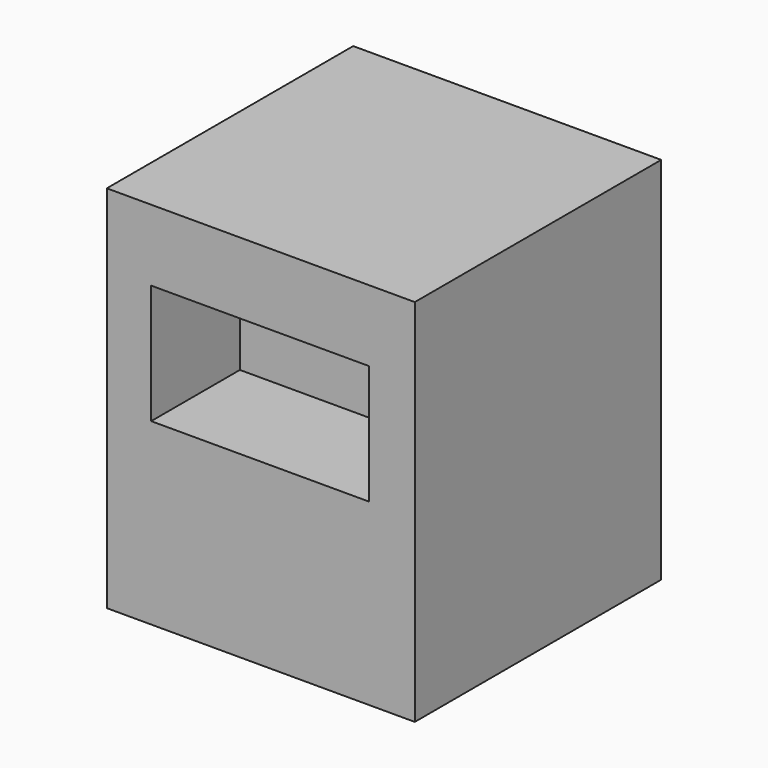
from build123d import *

# Parameters (mm, degrees)
F0_W     = 25
F0_H     = 25
F2_DEPTH = 30
F3_W     = 17.673826
F3_H     = 9.68429
F4_DEPTH = 9
F5_R     = 1.434881
F6_DEPTH = 10


with BuildPart() as f2:
    # F0 (on Top) → F2 (new body)
    with BuildSketch(Plane.XY):
        Rectangle(F0_W, F0_H)
    extrude(amount=F2_DEPTH)

    # F3 (on face) → F4 (cut)
    with BuildSketch(Plane.XZ.offset(12.5)):
        with Locations((-0.060834, 19.375956)):
            Rectangle(F3_W, F3_H)
    extrude(amount=-F4_DEPTH, mode=Mode.SUBTRACT)

    # F5 (on offset) → F6 (join)
    with BuildSketch(Plane.XY.offset(30)):
        with Locations((-3.82385, -3.980379)):
            Circle(F5_R)
        with Locations((3.82385, -3.980379)):
            Circle(F5_R)
    extrude(amount=-F6_DEPTH)


solid = f2.part
